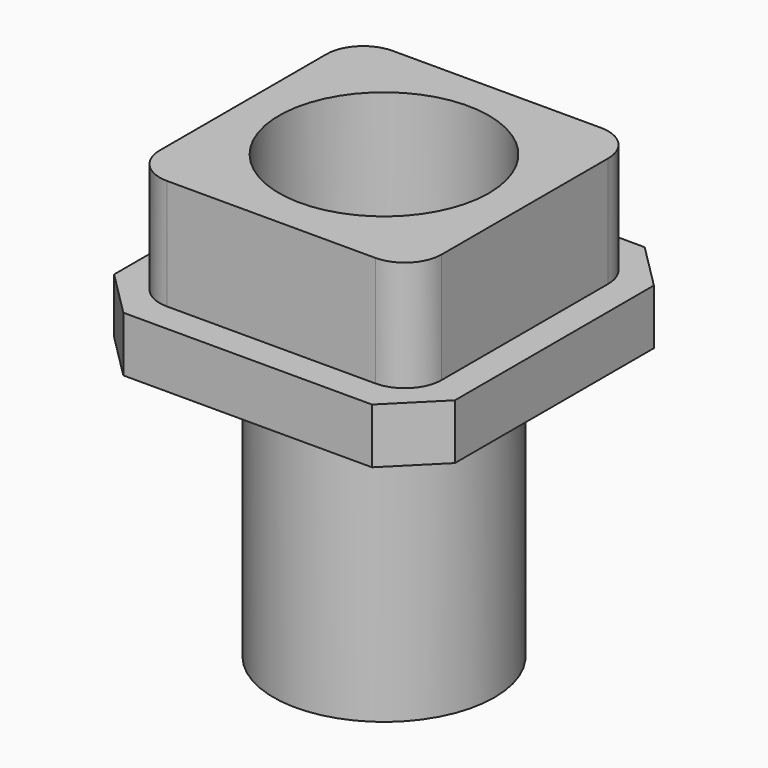
from build123d import *

# Parameters (mm, degrees)
PAD_DEPTH    = 3
SKETCH001_W  = 15.3
SKETCH001_H  = 15.3
SKETCH001_R  = 5.7
PAD001_DEPTH = 6
SKETCH002_R  = 6
PAD002_DEPTH = 15
POCKET_DEPTH = 24.001
FILLET_R     = 2


with BuildPart() as part:
    # Sketch → Pad (new body)
    with BuildSketch(Plane.XY):
        Polygon((-9.25, 6.75), (-6.75, 9.25), (6.75, 9.25), (9.25, 6.75), (9.25, -6.75), (6.75, -9.25), (-6.75, -9.25), (-9.25, -6.75), align=None)
    extrude(amount=PAD_DEPTH)

    # Sketch001 → Pad001 (new body)
    with BuildSketch(Plane.XY.offset(3)):
        Rectangle(SKETCH001_W, SKETCH001_H)
        Circle(SKETCH001_R, mode=Mode.SUBTRACT)
    extrude(amount=PAD001_DEPTH)

    # Sketch002 → Pad002 (new body)
    with BuildSketch(Plane(origin=(0, 0, 0), x_dir=(1, 0, 0), z_dir=(0, 0, -1))):
        Circle(SKETCH002_R)
    extrude(amount=PAD002_DEPTH)

    # Sketch003 → Pocket (cut, through all)
    with BuildSketch(Plane(origin=(0, 0, -15), x_dir=(1, 0, 0), z_dir=(0, 0, -1))):
        with BuildLine():
            Line((-1.684191, 2.02), (1.684191, 2.02))
            ThreePointArc((-1.684191, 2.02), (0, -2.63), (1.684191, 2.02))
        make_face()
    extrude(amount=-POCKET_DEPTH, mode=Mode.SUBTRACT)

    # Fillet
    fillet_edges = [part.edges().sort_by_distance(p)[0] for p in [
        (-7.65, -7.65, 6),
        (7.65, -7.65, 6),
        (-7.65, 7.65, 6),
        (7.65, 7.65, 6),
    ]]
    fillet(fillet_edges, radius=FILLET_R)


solid = part.part
